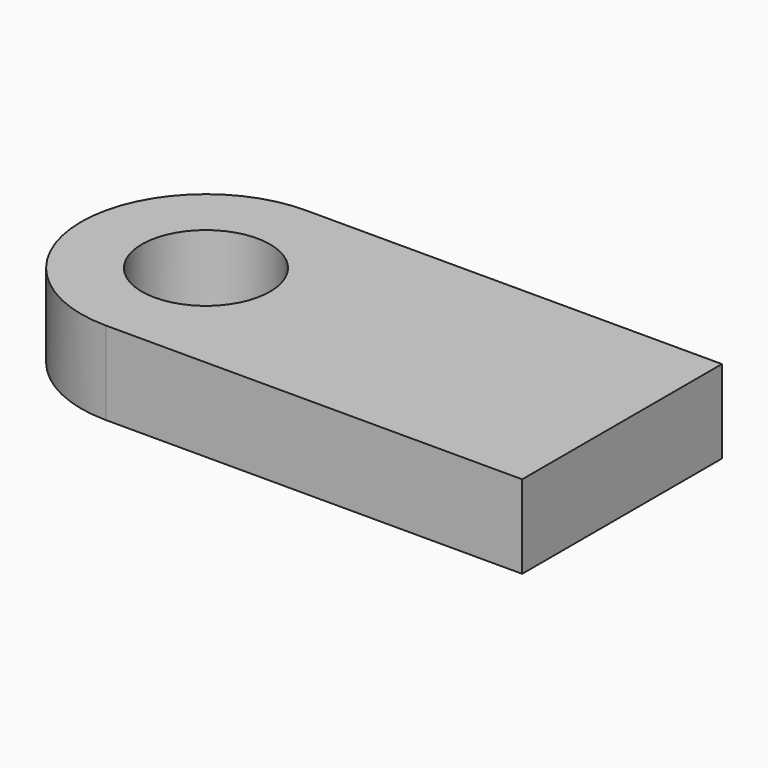
from build123d import *

# Parameters (mm, degrees)
F1_DEPTH = 25.4
F2_DEPTH = 25.4
F3_DEPTH = 25.4


with BuildPart() as f1:
    # F0 (on Top) → F1 (new body)
    with BuildSketch(Plane.XY):
        with BuildLine():
            Line((-63.5, 19.565446079), (-63.5, -19.565446079))
            ThreePointArc((-63.5, -19.565446079), (-49.6651404006, -13.8348595994), (-43.934553921, 0))
            ThreePointArc((-43.934553921, 0), (-49.6651404006, 13.8348595994), (-63.5, 19.565446079))
        make_face()
        with BuildLine():
            ThreePointArc((-63.5, 19.565446079), (-83.065446079, 0), (-63.5, -19.565446079))
            Line((-63.5, -19.565446079), (-63.5, 19.565446079))
        make_face()
    extrude(amount=F1_DEPTH)

    # F0 (on Top) → F2 (join)
    with BuildSketch(Plane.XY):
        with BuildLine():
            Line((-63.5, -38.1), (63.5, -38.1))
            Line((63.5, -38.1), (63.5, 38.1))
            Line((63.5, 38.1), (-63.5, 38.1))
            ThreePointArc((-63.5, 38.1), (-36.5592316368, 26.9407683632), (-25.4, 0))
            ThreePointArc((-25.4, 0), (-36.5592316368, -26.9407683632), (-63.5, -38.1))
        make_face()
        with BuildLine():
            ThreePointArc((-63.5, 38.1), (-101.6, 0), (-63.5, -38.1))
            Line((-63.5, -38.1), (-63.5, -19.565446079))
            ThreePointArc((-63.5, -19.565446079), (-83.065446079, 0), (-63.5, 19.565446079))
            Line((-63.5, 19.565446079), (-63.5, 38.1))
        make_face()
        with BuildLine():
            Line((-63.5, -19.565446079), (-63.5, -38.1))
            ThreePointArc((-63.5, -38.1), (-36.5592316368, -26.9407683632), (-25.4, 0))
            ThreePointArc((-25.4, 0), (-36.5592316368, 26.9407683632), (-63.5, 38.1))
            Line((-63.5, 38.1), (-63.5, 19.565446079))
            ThreePointArc((-63.5, 19.565446079), (-49.6651404006, 13.8348595994), (-43.934553921, 0))
            ThreePointArc((-43.934553921, 0), (-49.6651404006, -13.8348595994), (-63.5, -19.565446079))
        make_face()
    extrude(amount=F2_DEPTH)

    # F0 (on Top) → F3 (cut)
    with BuildSketch(Plane.XY):
        with BuildLine():
            ThreePointArc((-63.5, 19.565446079), (-83.065446079, 0), (-63.5, -19.565446079))
            Line((-63.5, -19.565446079), (-63.5, 19.565446079))
        make_face()
        with BuildLine():
            Line((-63.5, 19.565446079), (-63.5, -19.565446079))
            ThreePointArc((-63.5, -19.565446079), (-49.6651404006, -13.8348595994), (-43.934553921, 0))
            ThreePointArc((-43.934553921, 0), (-49.6651404006, 13.8348595994), (-63.5, 19.565446079))
        make_face()
    extrude(amount=F3_DEPTH, mode=Mode.SUBTRACT)


solid = f1.part
